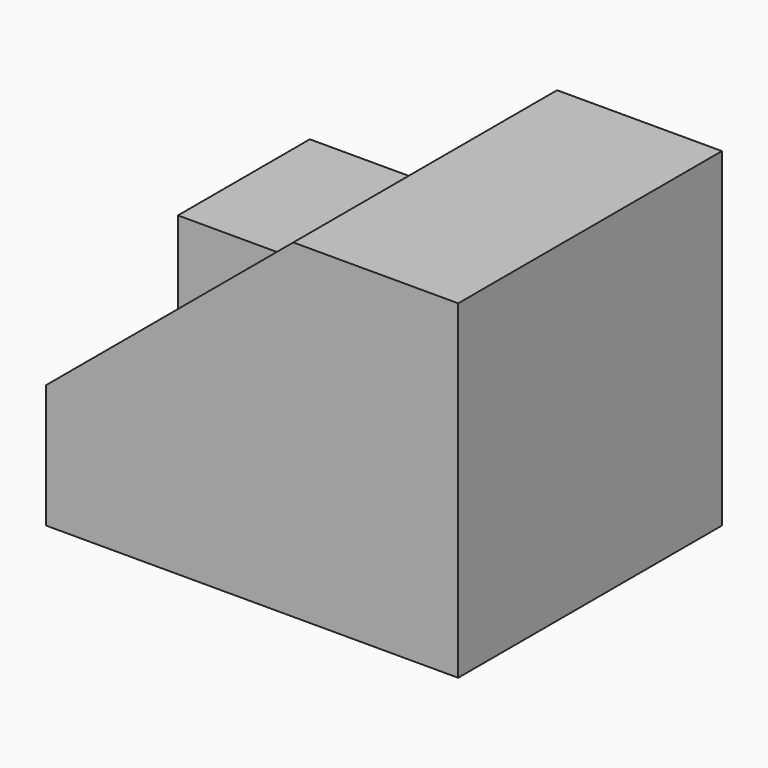
from build123d import *

# Parameters (mm, degrees)
F0_W     = 50.8
F0_H     = 101.6
F1_DEPTH = 50.8
F2_DEPTH = 50.8


with BuildPart() as f1:
    # F0 (on Front) → F1 (new body, symmetric)
    with BuildSketch(Plane.XZ):
        with Locations((58.430456, -12.7)):
            Rectangle(F0_W, F0_H)
        Polygon((33.030456, -63.5), (33.030456, 38.1), (-12.689544, 0), (-43.169544, -25.4), (-43.169544, -63.5), align=None)
    extrude(amount=F1_DEPTH, both=True)

    # F0 (on Front) → F2 (join)
    with BuildSketch(Plane.XZ):
        Polygon((-43.169544, -25.4), (-12.689544, 0), (-43.169544, 0), align=None)
    extrude(amount=-F2_DEPTH)


solid = f1.part
